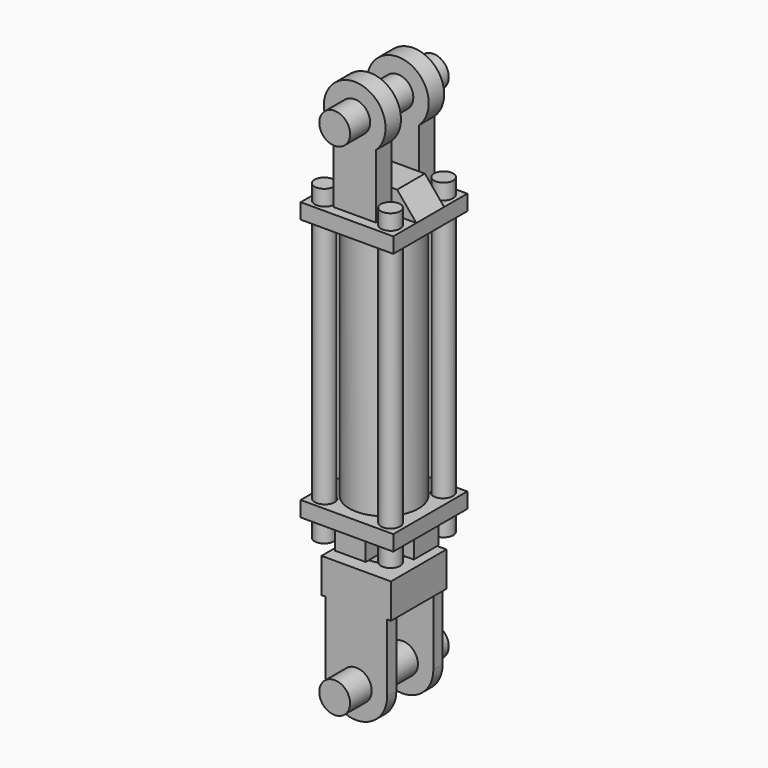
from build123d import *

# Parameters (mm, degrees)
SKETCH006_R            = 14.2875
PAD006_DEPTH           = 273.05
SKETCH007_W            = 57.15
SKETCH007_H            = 57.15
PAD007_DEPTH           = 28.575
SKETCH008_R            = 12.7
PAD008_DEPTH           = 9.525
LINEARPATTERN001_COUNT = 2
LINEARPATTERN001_PITCH = 47.625
SKETCH010_R            = 7.9375
PAD010_DEPTH           = 257.175
ARRAY_X_COUNT          = 2
ARRAY_X_PITCH          = 54.61
ARRAY_Y_COUNT          = 2
ARRAY_Y_PITCH          = 54.61
SKETCH_W               = 76.2
SKETCH_H               = 76.2
SKETCH_R               = 7.9375
PAD_DEPTH              = 12.7
PAD001_DEPTH           = 14.2875
SKETCH002_R            = 12.7
PAD002_DEPTH           = 15.875
LINEARPATTERN_COUNT    = 2
LINEARPATTERN_PITCH    = 44.45
SKETCH003_R            = 28.575
SKETCH003_R_2          = 25.4
PAD003_DEPTH           = 203.2
SKETCH004_W            = 76.2
SKETCH004_H            = 76.2
SKETCH004_R            = 7.9375
SKETCH004_R_2          = 25.4
PAD004_DEPTH           = 12.7
SKETCH005_R            = 14.2875
PAD005_DEPTH           = 17.145
CYLINDER_R             = 12.7
CYLINDER_DEPTH         = 101.6
CYLINDER_ROLL_ANGLE    = 90


with BuildPart() as body001:
    # Sketch006 → Pad006 (new body)
    with BuildSketch(Plane.XY):
        Circle(SKETCH006_R)
    extrude(amount=-PAD006_DEPTH)

    # Sketch007 (on Face3 of Pad006) → Pad007 (join)
    with BuildSketch(Plane(origin=(0, 0, -273.05), x_dir=(1, 0, 0), z_dir=(0, 0, -1))):
        Rectangle(SKETCH007_W, SKETCH007_H)
    extrude(amount=-PAD007_DEPTH)

    # Sketch008 (on Face4 of Pad007) → Pad008 (join)
    with BuildSketch(Plane.XZ.offset(28.575)):
        with BuildLine():
            Line((-25.4, -247.65), (25.4, -247.65))
            Line((25.4, -247.65), (25.4, -328.929945))
            ThreePointArc((-25.4, -328.929945), (0, -354.33), (25.4, -328.929945))
            Line((-25.4, -328.929945), (-25.4, -247.65))
        make_face()
        with Locations((0, -328.93)):
            Circle(SKETCH008_R, mode=Mode.SUBTRACT)
    pad008 = extrude(amount=-PAD008_DEPTH)

    # LinearPattern001: Pad008 ×2
    with Locations(*[(0, i * LINEARPATTERN001_PITCH, 0) for i in range(1, LINEARPATTERN001_COUNT)]):
        add(pad008)


with BuildPart() as array:
    # Sketch010 → Pad010 (new body)
    with BuildSketch(Plane.XY):
        with Locations((26.9875, -26.9875)):
            Circle(SKETCH010_R)
    extrude(amount=-PAD010_DEPTH)

    # Array X: Array ×2


with BuildPart() as array_1:
    add(array.part)
    with Locations(*[(-i * ARRAY_X_PITCH, 0, 0) for i in range(1, ARRAY_X_COUNT)]):
        add(array.part)

    # Array Y: Array ×2


with BuildPart() as array_2:
    add(array_1.part)
    with Locations(*[(0, i * ARRAY_Y_PITCH, 0) for i in range(1, ARRAY_Y_COUNT)]):
        add(array_1.part)


with BuildPart() as array_3:
    # Array placement: moved
    add(array_2.part.moved(Location((0, 0, 25.4))))


with BuildPart() as fusion:
    # Sketch → Pad (new body)
    with BuildSketch(Plane.XY):
        Rectangle(SKETCH_W, SKETCH_H)
        with Locations((-26.9875, 26.9875)):
            Circle(SKETCH_R, mode=Mode.SUBTRACT)
        with Locations((26.9875, 26.9875)):
            Circle(SKETCH_R, mode=Mode.SUBTRACT)
        with Locations((-26.9875, -26.9875)):
            Circle(SKETCH_R, mode=Mode.SUBTRACT)
        with Locations((26.9875, -26.9875)):
            Circle(SKETCH_R, mode=Mode.SUBTRACT)
    extrude(amount=PAD_DEPTH)

    # Sketch001 → Pad001 (join, symmetric)
    with BuildSketch(Plane(origin=(0, 0, 12.7), x_dir=(1, 0, 0), z_dir=(0, -1, 0))):
        Polygon((-38.1, 0), (38.1, 0), (22.225, 19.05), (-22.225, 19.05), align=None)
    extrude(amount=PAD001_DEPTH, both=True)

    # Sketch002 (on Face15 of Pad001) → Pad002 (join)
    with BuildSketch(Plane.XZ.offset(14.2875)):
        with BuildLine():
            Line((-17.4625, 0), (17.4625, 0))
            Line((17.4625, 0), (17.4625, 65.374917))
            ThreePointArc((17.4625, 65.374917), (0, 109.22), (-17.4625, 65.374917))
            Line((-17.4625, 65.374917), (-17.4625, 0))
        make_face()
        with Locations((0, 83.82)):
            Circle(SKETCH002_R, mode=Mode.SUBTRACT)
    pad002 = extrude(amount=PAD002_DEPTH)

    # LinearPattern: Pad002 ×2
    with Locations(*[(0, i * LINEARPATTERN_PITCH, 0) for i in range(1, LINEARPATTERN_COUNT)]):
        add(pad002)

    # Sketch003 (on Face4 of LinearPattern) → Pad003 (join)
    with BuildSketch(Plane(origin=(0, 0, 0), x_dir=(1, 0, 0), z_dir=(0, 0, -1))):
        Circle(SKETCH003_R)
        Circle(SKETCH003_R_2, mode=Mode.SUBTRACT)
    extrude(amount=PAD003_DEPTH)

    # Sketch004 (on Face28 of Pad003) → Pad004 (join)
    with BuildSketch(Plane(origin=(0, 0, -203.2), x_dir=(1, 0, 0), z_dir=(0, 0, -1))):
        Rectangle(SKETCH004_W, SKETCH004_H)
        with Locations((-26.9875, 26.9875)):
            Circle(SKETCH004_R, mode=Mode.SUBTRACT)
        with Locations((26.9875, 26.9875)):
            Circle(SKETCH004_R, mode=Mode.SUBTRACT)
        with Locations((-26.9875, -26.9875)):
            Circle(SKETCH004_R, mode=Mode.SUBTRACT)
        with Locations((26.9875, -26.9875)):
            Circle(SKETCH004_R, mode=Mode.SUBTRACT)
        Circle(SKETCH004_R_2, mode=Mode.SUBTRACT)
    extrude(amount=PAD004_DEPTH)

    # Sketch005 (on Face43 of Pad004) → Pad005 (join)
    with BuildSketch(Plane(origin=(0, 0, -215.9), x_dir=(1, 0, 0), z_dir=(0, 0, -1))):
        with BuildLine():
            ThreePointArc((21.997045, 12.7), (17.960512, 17.960512), (12.7, 21.997045))
            Line((12.7, 34.697045), (12.7, 21.997045))
            Line((-12.7, 34.697045), (12.7, 34.697045))
            Line((-12.7, 21.997045), (-12.7, 34.697045))
            ThreePointArc((-12.7, 21.997045), (-17.960512, 17.960512), (-21.997045, 12.7))
            Line((-34.697045, 12.7), (-21.997045, 12.7))
            Line((-34.697045, -12.7), (-34.697045, 12.7))
            Line((-21.997045, -12.7), (-34.697045, -12.7))
            ThreePointArc((-21.997045, -12.7), (-17.960512, -17.960512), (-12.7, -21.997045))
            Line((-12.7, -21.997045), (-12.7, -47.397045))
            Line((-12.7, -47.397045), (12.7, -47.397045))
            Line((12.7, -47.397045), (12.7, -21.997045))
            ThreePointArc((12.7, -21.997045), (17.960512, -17.960512), (21.997045, -12.7))
            Line((21.997045, -12.7), (34.697045, -12.7))
            Line((34.697045, -12.7), (34.697045, 12.7))
            Line((34.697045, 12.7), (21.997045, 12.7))
        make_face()
        Circle(SKETCH005_R, mode=Mode.SUBTRACT)
    extrude(amount=PAD005_DEPTH)

    # Fusion: union Body001, Array
    add(body001.part)
    add(array_3.part)


with BuildPart() as cylinder:
    # Cylinder → Cylinder (new body)
    with BuildSketch(Plane.XY):
        Circle(CYLINDER_R)
    extrude(amount=CYLINDER_DEPTH)


with BuildPart() as cylinder_1:
    # Cylinder roll: moved
    add(cylinder.part.rotate(Axis((0, 0, 0), (1, 0, 0)), CYLINDER_ROLL_ANGLE))


with BuildPart() as cylinder_2:
    # Cylinder placement: moved
    add(cylinder_1.part.moved(Location((0, 50.8, 83.82))))


with BuildPart() as cylinder001:
    # Clone base: copy of Cylinder
    add(cylinder_2.part)


with BuildPart() as cylinder001_1:
    # Clone placement: moved
    add(cylinder001.part.moved(Location((0, 0, -412.75))))


with BuildPart() as fusion001:
    # Fusion001 base: copy of Cylinder
    add(cylinder_2.part)

    # Fusion001: union Fusion, Cylinder001
    add(fusion.part)
    add(cylinder001_1.part)


solid = fusion001.part
